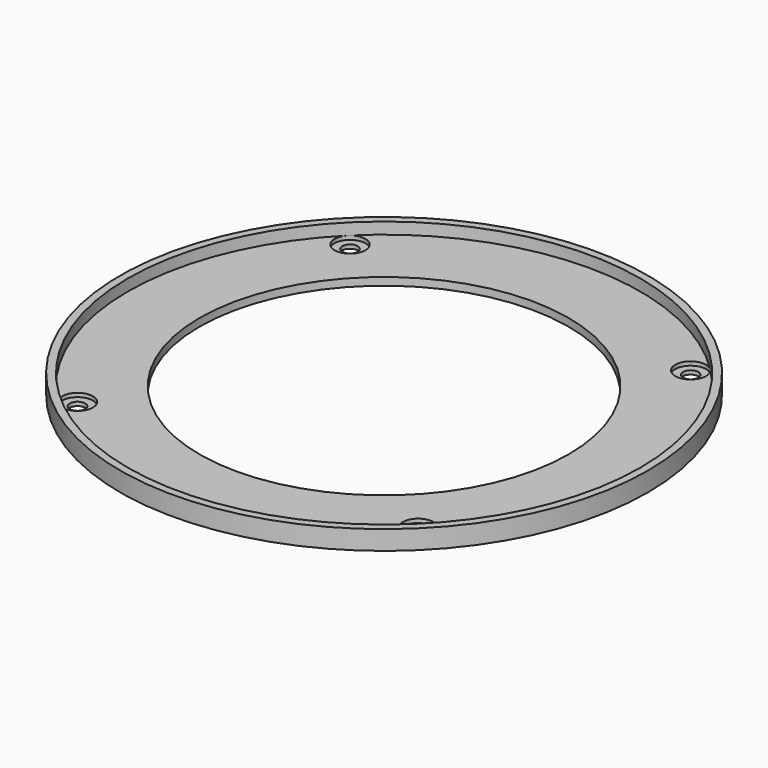
from build123d import *

# Parameters (mm, degrees)
F0_R     = 54.477198
F0_R_2   = 1.5875
F0_R_3   = 38.1
F1_DEPTH = 1.5875
F2_R     = 54.477198
F2_R_2   = 52.889698
F3_DEPTH = 2.38125
F4_R     = 3.175
F5_DEPTH = 0.79375


with BuildPart() as f1:
    # F0 (on Top) → F1 (new body)
    with BuildSketch(Plane.XY):
        Circle(F0_R)
        with Locations((-35.1536, -35.1536)):
            Circle(F0_R_2, mode=Mode.SUBTRACT)
        with Locations((35.1536, -35.1536)):
            Circle(F0_R_2, mode=Mode.SUBTRACT)
        with Locations((-35.1536, 35.1536)):
            Circle(F0_R_2, mode=Mode.SUBTRACT)
        Circle(F0_R_3, mode=Mode.SUBTRACT)
        with Locations((35.1536, 35.1536)):
            Circle(F0_R_2, mode=Mode.SUBTRACT)
    extrude(amount=F1_DEPTH)

    # F2 (on face) → F3 (join)
    with BuildSketch(Plane.XY.offset(1.5875)):
        Circle(F2_R)
        Circle(F2_R_2, mode=Mode.SUBTRACT)
    extrude(amount=F3_DEPTH)

    # F4 (on face) → F5 (cut)
    with BuildSketch(Plane.XY.offset(1.5875)):
        with Locations((-35.1536, 35.1536)):
            Circle(F4_R)
        with Locations((35.1536, 35.1536)):
            Circle(F4_R)
        with Locations((35.1536, -35.1536)):
            Circle(F4_R)
        with Locations((-35.1536, -35.1536)):
            Circle(F4_R)
    extrude(amount=-F5_DEPTH, mode=Mode.SUBTRACT)


solid = f1.part
